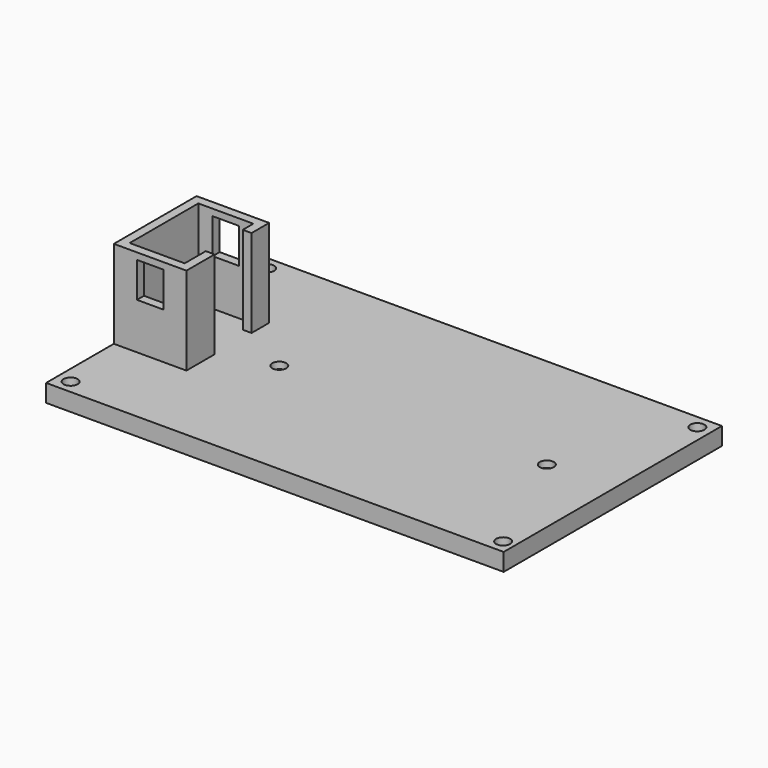
from build123d import *

# Parameters (mm, degrees)
BOX_W                  = 6
BOX_H                  = 30
BOX_DEPTH              = 8
EXTRUDE001_DEPTH       = 20
CUT009_PLACEMENT_ANGLE = 180
SKETCH003_R            = 1.6
EXTRUDE003_DEPTH       = 2.5
SKETCH002_R            = 1.6
EXTRUDE002_DEPTH       = 2.5
SKETCH_R               = 1.6
EXTRUDE_DEPTH          = 10
CYLINDER007_R          = 1.6
CYLINDER007_DEPTH      = 10
CYLINDER006_R          = 1.6
CYLINDER006_DEPTH      = 10
CYLINDER005_R          = 1.6
CYLINDER005_DEPTH      = 10
CYLINDER004_R          = 1.6
CYLINDER004_DEPTH      = 10
BOX001_W               = 104
BOX001_H               = 62
BOX001_DEPTH           = 4


with BuildPart() as cube:
    # Box → Box (new body)
    with BuildSketch(Plane(origin=(-3, -15, 10.5), x_dir=(1, 0, 0), z_dir=(0, 0, 1))):
        with Locations((3, 15)):
            Rectangle(BOX_W, BOX_H)
    extrude(amount=BOX_DEPTH)


with BuildPart() as switch_holder:
    # Sketch001 → Extrude001 (new body)
    with BuildSketch(Plane.XY):
        Polygon((6.25, -9.75), (6.25, 9.75), (-6.25, 9.75), (-6.25, 3.75), (-8.25, 3.75), (-8.25, 11.75), (8.25, 11.75), (8.25, -11.75), (-8.25, -11.75), (-8.25, -6.75), (-6.25, -6.75), (-6.25, -9.75), align=None)
    extrude(amount=EXTRUDE001_DEPTH)

    # Cut009: cut Cube
    add(cube.part, mode=Mode.SUBTRACT)


with BuildPart() as switch_holder_1:
    # Cut009 placement: moved
    add(switch_holder.part.moved(Location((-95.75, 31, 4))).rotate(Axis((-95.75, 31, 4), (0, 0, 1)), CUT009_PLACEMENT_ANGLE))


with BuildPart() as nylon_nut_cutout001:
    # Sketch003 → Extrude003 (new body)
    with BuildSketch(Plane.XY):
        Polygon((3.2, 0), (1.6, 2.771281), (-1.6, 2.771281), (-3.2, 0), (-1.6, -2.771281), (1.6, -2.771281), align=None)
        Circle(SKETCH003_R, mode=Mode.SUBTRACT)
    extrude(amount=EXTRUDE003_DEPTH)


with BuildPart() as nylon_nut_cutout001_1:
    # Extrude003 placement: moved
    add(nylon_nut_cutout001.part.moved(Location((-75.8, 31, 0))))


with BuildPart() as nylon_nut_cutout:
    # Sketch002 → Extrude002 (new body)
    with BuildSketch(Plane.XY):
        Polygon((3.2, 0), (1.6, 2.771281), (-1.6, 2.771281), (-3.2, 0), (-1.6, -2.771281), (1.6, -2.771281), align=None)
        Circle(SKETCH002_R, mode=Mode.SUBTRACT)
    extrude(amount=EXTRUDE002_DEPTH)


with BuildPart() as nylon_nut_cutout_1:
    # Extrude002 placement: moved
    add(nylon_nut_cutout.part.moved(Location((-15, 31, 0))))


with BuildPart() as extrude_body:
    # Sketch → Extrude (new body)
    with BuildSketch(Plane.XY):
        with Locations((-15, 31)):
            Circle(SKETCH_R)
        with Locations((-75.8, 31)):
            Circle(SKETCH_R)
    extrude(amount=EXTRUDE_DEPTH)


with BuildPart() as mount_point003:
    # Cylinder007 → Cylinder007 (new body)
    with BuildSketch(Plane(origin=(-3.1, 58.9, 0), x_dir=(1, 0, 0), z_dir=(0, 0, 1))):
        Circle(CYLINDER007_R)
    extrude(amount=CYLINDER007_DEPTH)


with BuildPart() as mount_point002:
    # Cylinder006 → Cylinder006 (new body)
    with BuildSketch(Plane(origin=(-100.9, 58.9, 0), x_dir=(1, 0, 0), z_dir=(0, 0, 1))):
        Circle(CYLINDER006_R)
    extrude(amount=CYLINDER006_DEPTH)


with BuildPart() as mount_point001:
    # Cylinder005 → Cylinder005 (new body)
    with BuildSketch(Plane(origin=(-100.9, 3.1, 0), x_dir=(1, 0, 0), z_dir=(0, 0, 1))):
        Circle(CYLINDER005_R)
    extrude(amount=CYLINDER005_DEPTH)


with BuildPart() as mount_point:
    # Cylinder004 → Cylinder004 (new body)
    with BuildSketch(Plane(origin=(-2.6, 3.1, 0), x_dir=(1, 0, 0), z_dir=(0, 0, 1))):
        Circle(CYLINDER004_R)
    extrude(amount=CYLINDER004_DEPTH)


with BuildPart() as battery_platform:
    # Box001 → Box001 (new body)
    with BuildSketch(Plane(origin=(-104, 0, 0), x_dir=(1, 0, 0), z_dir=(0, 0, 1))):
        with Locations((52, 31)):
            Rectangle(BOX001_W, BOX001_H)
    extrude(amount=BOX001_DEPTH)

    # Cut005: cut Mount Point
    add(mount_point.part, mode=Mode.SUBTRACT)

    # Cut006: cut Mount Point001
    add(mount_point001.part, mode=Mode.SUBTRACT)

    # Cut007: cut Mount Point002
    add(mount_point002.part, mode=Mode.SUBTRACT)

    # Cut008: cut Mount Point003
    add(mount_point003.part, mode=Mode.SUBTRACT)

    # Cut: cut Extrude body
    add(extrude_body.part, mode=Mode.SUBTRACT)

    # Cut010: cut Nylon Nut Cutout
    add(nylon_nut_cutout_1.part, mode=Mode.SUBTRACT)

    # Cut011: cut Nylon Nut Cutout001
    add(nylon_nut_cutout001_1.part, mode=Mode.SUBTRACT)

    # Fusion: union Switch Holder
    add(switch_holder_1.part)


solid = battery_platform.part
